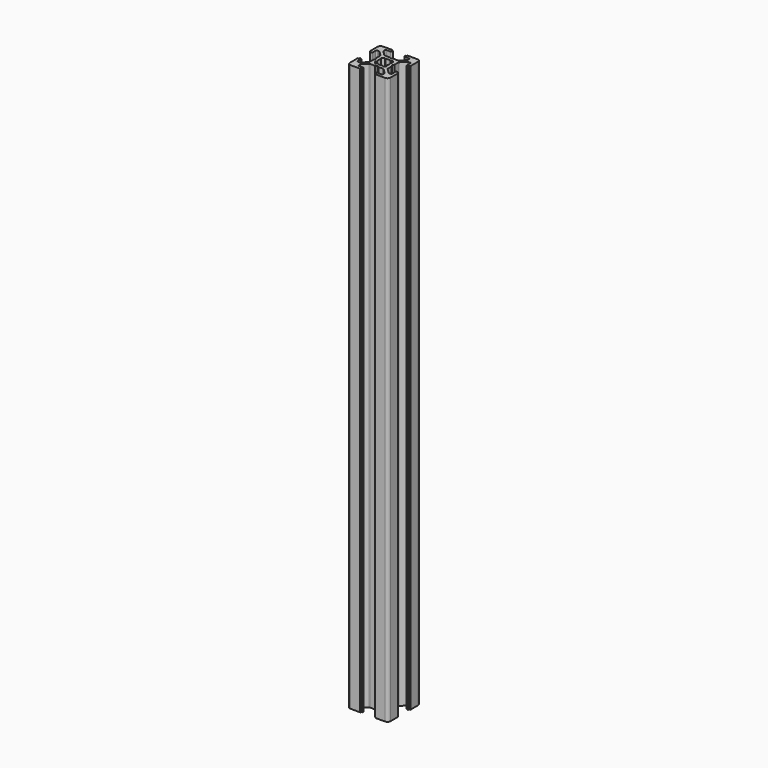
from build123d import *

# Parameters (mm, degrees)
PAD_DEPTH        = 5
POCKET_DEPTH     = 5.001
EXTRUDE001_DEPTH = 470
EXTRUDE_DEPTH    = 280


with BuildPart() as pocket:
    # Sketch → Pad (new body)
    with BuildSketch(Plane(origin=(1.5, 0, 0), x_dir=(1, 0, 0), z_dir=(0, 0, 1))):
        with BuildLine():
            Line((0, 20), (4.65, 20))
            ThreePointArc((4.85, 19.8), (4.791421, 19.941421), (4.65, 20))
            Line((4.85, 19.8), (4.85, 19.5))
            Line((4.85, 19.5), (5.2, 19.5))
            ThreePointArc((5.4, 19.3), (5.341421, 19.441421), (5.2, 19.5))
            Line((5.4, 19.3), (5.4, 19))
            ThreePointArc((4.9, 18.5), (5.253553, 18.646446), (5.4, 19))
            Line((4.9, 18.5), (2.999999, 18.5))
            ThreePointArc((2.999999, 18.5), (2.646446, 18.353553), (2.499999, 18))
            Line((2.499999, 18), (2.499999, 17.267767))
            ThreePointArc((2.499999, 17.267767), (2.53806, 17.076425), (2.646446, 16.914213))
            Line((2.646446, 16.914213), (4.914213, 14.646447))
            ThreePointArc((4.914213, 14.646447), (5.076424, 14.53806), (5.267766, 14.5))
            Line((5.267766, 14.5), (7.54641, 14.5))
            ThreePointArc((7.64641, 14.473205), (7.598173, 14.493185), (7.54641, 14.5))
            Line((7.64641, 14.473205), (8.4, 14.03812))
            ThreePointArc((8.4, 14.03812), (8.5, 14.011325), (8.6, 14.03812))
            Line((8.6, 14.03812), (9.35359, 14.473205))
            ThreePointArc((9.45359, 14.5), (9.401827, 14.493185), (9.35359, 14.473205))
            Line((9.45359, 14.5), (11.732234, 14.5))
            ThreePointArc((11.732234, 14.5), (11.923576, 14.53806), (12.085787, 14.646447))
            Line((12.085787, 14.646447), (14.353554, 16.914213))
            ThreePointArc((14.353554, 16.914213), (14.46194, 17.076425), (14.500001, 17.267767))
            Line((14.500001, 17.267767), (14.500001, 18))
            ThreePointArc((14.500001, 18), (14.353554, 18.353553), (14.000001, 18.5))
            Line((14.000001, 18.5), (12.1, 18.5))
            ThreePointArc((11.6, 19), (11.746447, 18.646446), (12.1, 18.5))
            Line((11.6, 19), (11.6, 19.3))
            ThreePointArc((11.8, 19.5), (11.658579, 19.441421), (11.6, 19.3))
            Line((11.8, 19.5), (12.15, 19.5))
            Line((12.15, 19.5), (12.15, 19.8))
            ThreePointArc((12.35, 20), (12.208579, 19.941421), (12.15, 19.8))
            Line((12.35, 20), (17, 20))
            ThreePointArc((18.5, 18.5), (18.06066, 19.56066), (17, 20))
            Line((18.5, 18.5), (18.5, 13.85))
            ThreePointArc((18.3, 13.65), (18.441421, 13.708578), (18.5, 13.85))
            Line((18.3, 13.65), (18, 13.65))
            Line((18, 13.65), (18, 13.3))
            ThreePointArc((17.8, 13.1), (17.941421, 13.158579), (18, 13.3))
            Line((17.8, 13.1), (17.5, 13.1))
            ThreePointArc((17, 13.6), (17.146446, 13.246447), (17.5, 13.1))
            Line((17, 13.6), (17, 15.5))
            ThreePointArc((17, 15.5), (16.853553, 15.853553), (16.5, 16))
            Line((16.5, 16), (15.767767, 16))
            ThreePointArc((15.767767, 16), (15.576425, 15.961939), (15.414213, 15.853553))
            Line((15.414213, 15.853553), (13.146446, 13.585786))
            ThreePointArc((13.146446, 13.585786), (13.03806, 13.423574), (13, 13.232233))
            Line((13, 13.232233), (13, 10.953589))
            ThreePointArc((12.973205, 10.853589), (12.993185, 10.901825), (13, 10.953589))
            Line((12.973205, 10.853589), (12.53812, 10.1))
            ThreePointArc((12.53812, 10.1), (12.511325, 10), (12.53812, 9.9))
            Line((12.53812, 9.9), (12.973205, 9.146411))
            ThreePointArc((13, 9.046411), (12.993185, 9.098175), (12.973205, 9.146411))
            Line((13, 9.046411), (13, 6.767767))
            ThreePointArc((13, 6.767767), (13.03806, 6.576426), (13.146446, 6.414214))
            Line((13.146446, 6.414214), (15.414213, 4.146447))
            ThreePointArc((15.414213, 4.146447), (15.576425, 4.038061), (15.767767, 4))
            Line((15.767767, 4), (16.5, 4))
            ThreePointArc((16.5, 4), (16.853553, 4.146447), (17, 4.5))
            Line((17, 4.5), (17, 6.4))
            ThreePointArc((17.5, 6.9), (17.146446, 6.753553), (17, 6.4))
            Line((17.5, 6.9), (17.8, 6.9))
            ThreePointArc((18, 6.7), (17.941421, 6.841421), (17.8, 6.9))
            Line((18, 6.7), (18, 6.35))
            Line((18, 6.35), (18.3, 6.35))
            ThreePointArc((18.5, 6.15), (18.441421, 6.291422), (18.3, 6.35))
            Line((18.5, 6.15), (18.5, 1.5))
            ThreePointArc((17, 0), (18.06066, 0.43934), (18.5, 1.5))
            Line((17, 0), (12.35, 0))
            ThreePointArc((12.15, 0.2), (12.208579, 0.058579), (12.35, 0))
            Line((12.15, 0.2), (12.15, 0.5))
            Line((12.15, 0.5), (11.8, 0.5))
            ThreePointArc((11.6, 0.7), (11.658579, 0.558579), (11.8, 0.5))
            Line((11.6, 0.7), (11.6, 1))
            ThreePointArc((12.1, 1.5), (11.746447, 1.353554), (11.6, 1))
            Line((12.1, 1.5), (14.000001, 1.5))
            ThreePointArc((14.000001, 1.5), (14.353554, 1.646447), (14.500001, 2))
            Line((14.500001, 2), (14.500001, 2.732233))
            ThreePointArc((14.500001, 2.732233), (14.46194, 2.923575), (14.353554, 3.085787))
            Line((14.353554, 3.085787), (12.085787, 5.353553))
            ThreePointArc((12.085787, 5.353553), (11.923576, 5.46194), (11.732234, 5.5))
            Line((11.732234, 5.5), (9.45359, 5.5))
            ThreePointArc((9.35359, 5.526795), (9.401827, 5.506815), (9.45359, 5.5))
            Line((9.35359, 5.526795), (8.6, 5.96188))
            ThreePointArc((8.6, 5.96188), (8.5, 5.988675), (8.4, 5.96188))
            Line((8.4, 5.96188), (7.64641, 5.526795))
            ThreePointArc((7.54641, 5.5), (7.598173, 5.506815), (7.64641, 5.526795))
            Line((7.54641, 5.5), (5.267766, 5.5))
            ThreePointArc((5.267766, 5.5), (5.076424, 5.46194), (4.914213, 5.353553))
            Line((4.914213, 5.353553), (2.646446, 3.085787))
            ThreePointArc((2.646446, 3.085787), (2.53806, 2.923575), (2.499999, 2.732233))
            Line((2.499999, 2.732233), (2.499999, 2))
            ThreePointArc((2.499999, 2), (2.646446, 1.646447), (2.999999, 1.5))
            Line((2.999999, 1.5), (4.9, 1.5))
            ThreePointArc((5.4, 1), (5.253553, 1.353554), (4.9, 1.5))
            Line((5.4, 1), (5.4, 0.7))
            ThreePointArc((5.2, 0.5), (5.341421, 0.558579), (5.4, 0.7))
            Line((5.2, 0.5), (4.85, 0.5))
            Line((4.85, 0.5), (4.85, 0.2))
            ThreePointArc((4.65, 0), (4.791421, 0.058579), (4.85, 0.2))
            Line((4.65, 0), (0, 0))
            ThreePointArc((-1.5, 1.5), (-1.06066, 0.43934), (0, 0))
            Line((-1.5, 1.5), (-1.5, 6.15))
            ThreePointArc((-1.3, 6.35), (-1.441421, 6.291422), (-1.5, 6.15))
            Line((-1.3, 6.35), (-1, 6.35))
            Line((-1, 6.35), (-1, 6.7))
            ThreePointArc((-0.8, 6.9), (-0.941421, 6.841421), (-1, 6.7))
            Line((-0.8, 6.9), (-0.5, 6.9))
            ThreePointArc((0, 6.4), (-0.146446, 6.753553), (-0.5, 6.9))
            Line((0, 6.4), (0, 4.5))
            ThreePointArc((0, 4.5), (0.146447, 4.146447), (0.5, 4))
            Line((0.5, 4), (1.232233, 4))
            ThreePointArc((1.232233, 4), (1.423575, 4.038061), (1.585787, 4.146447))
            Line((1.585787, 4.146447), (3.853554, 6.414214))
            ThreePointArc((3.853554, 6.414214), (3.96194, 6.576426), (4, 6.767767))
            Line((4, 6.767767), (4, 9.046411))
            ThreePointArc((4.026795, 9.146411), (4.006815, 9.098175), (4, 9.046411))
            Line((4.026795, 9.146411), (4.46188, 9.9))
            ThreePointArc((4.46188, 9.9), (4.488675, 10), (4.46188, 10.1))
            Line((4.46188, 10.1), (4.026795, 10.853589))
            ThreePointArc((4, 10.953589), (4.006815, 10.901825), (4.026795, 10.853589))
            Line((4, 10.953589), (4, 13.232233))
            ThreePointArc((4, 13.232233), (3.96194, 13.423574), (3.853554, 13.585786))
            Line((3.853554, 13.585786), (1.585787, 15.853553))
            ThreePointArc((1.585787, 15.853553), (1.423575, 15.961939), (1.232233, 16))
            Line((1.232233, 16), (0.5, 16))
            ThreePointArc((0.5, 16), (0.146447, 15.853553), (0, 15.5))
            Line((0, 15.5), (0, 13.6))
            ThreePointArc((-0.5, 13.1), (-0.146446, 13.246447), (0, 13.6))
            Line((-0.5, 13.1), (-0.8, 13.1))
            ThreePointArc((-1, 13.3), (-0.941421, 13.158579), (-0.8, 13.1))
            Line((-1, 13.3), (-1, 13.65))
            Line((-1, 13.65), (-1.3, 13.65))
            ThreePointArc((-1.5, 13.85), (-1.441421, 13.708578), (-1.3, 13.65))
            Line((-1.5, 13.85), (-1.5, 18.5))
            ThreePointArc((0, 20), (-1.06066, 19.56066), (-1.5, 18.5))
        make_face()
    extrude(amount=PAD_DEPTH)

    # Sketch001 → Pocket (cut, through all)
    with BuildSketch(Plane(origin=(1.5, 0, 5), x_dir=(1, 0, 0), z_dir=(0, 0, 1))):
        with BuildLine():
            ThreePointArc((6.586105, 12.989641), (5.988263, 12.50841), (5.507825, 11.909931))
            Line((6.054705, 11.258185), (5.507825, 11.909931))
            ThreePointArc((6.054705, 11.258185), (5.75, 10), (6.054705, 8.741815))
            Line((5.507825, 8.090069), (6.054705, 8.741815))
            ThreePointArc((5.507825, 8.090069), (5.988263, 7.49159), (6.586105, 7.010359))
            Line((7.241815, 7.554705), (6.586105, 7.010359))
            ThreePointArc((7.241815, 7.554705), (8.5, 7.25), (9.758185, 7.554705))
            Line((10.413895, 7.010359), (9.758185, 7.554705))
            ThreePointArc((10.413895, 7.010359), (11.011737, 7.49159), (11.492175, 8.090069))
            Line((10.945295, 8.741815), (11.492175, 8.090069))
            ThreePointArc((10.945295, 8.741815), (11.25, 10), (10.945295, 11.258185))
            Line((11.492175, 11.909931), (10.945295, 11.258185))
            ThreePointArc((11.492175, 11.909931), (11.011737, 12.50841), (10.413895, 12.989641))
            Line((9.758185, 12.445295), (10.413895, 12.989641))
            ThreePointArc((9.758185, 12.445295), (8.5, 12.75), (7.241815, 12.445295))
            Line((6.586105, 12.989641), (7.241815, 12.445295))
        make_face()
    extrude(amount=-POCKET_DEPTH, mode=Mode.SUBTRACT)


with BuildPart() as extrude001:
    # Sketch001 → Extrude001 (new body)
    with BuildSketch(Plane(origin=(1.5, 0, 5), x_dir=(1, 0, 0), z_dir=(0, 0, 1))):
        with BuildLine():
            ThreePointArc((6.586105, 12.989641), (5.988263, 12.50841), (5.507825, 11.909931))
            Line((6.054705, 11.258185), (5.507825, 11.909931))
            ThreePointArc((6.054705, 11.258185), (5.75, 10), (6.054705, 8.741815))
            Line((5.507825, 8.090069), (6.054705, 8.741815))
            ThreePointArc((5.507825, 8.090069), (5.988263, 7.49159), (6.586105, 7.010359))
            Line((7.241815, 7.554705), (6.586105, 7.010359))
            ThreePointArc((7.241815, 7.554705), (8.5, 7.25), (9.758185, 7.554705))
            Line((10.413895, 7.010359), (9.758185, 7.554705))
            ThreePointArc((10.413895, 7.010359), (11.011737, 7.49159), (11.492175, 8.090069))
            Line((10.945295, 8.741815), (11.492175, 8.090069))
            ThreePointArc((10.945295, 8.741815), (11.25, 10), (10.945295, 11.258185))
            Line((11.492175, 11.909931), (10.945295, 11.258185))
            ThreePointArc((11.492175, 11.909931), (11.011737, 12.50841), (10.413895, 12.989641))
            Line((9.758185, 12.445295), (10.413895, 12.989641))
            ThreePointArc((9.758185, 12.445295), (8.5, 12.75), (7.241815, 12.445295))
            Line((6.586105, 12.989641), (7.241815, 12.445295))
        make_face()
    extrude(amount=EXTRUDE001_DEPTH)


with BuildPart() as extrude001_1:
    # Extrude001 placement: moved
    add(extrude001.part.moved(Location((0, 0, -25))))


with BuildPart() as cut:
    # Sketch → Extrude (new body)
    with BuildSketch(Plane(origin=(1.5, 0, 0), x_dir=(1, 0, 0), z_dir=(0, 0, 1))):
        with BuildLine():
            Line((0, 20), (4.65, 20))
            ThreePointArc((4.85, 19.8), (4.791421, 19.941421), (4.65, 20))
            Line((4.85, 19.8), (4.85, 19.5))
            Line((4.85, 19.5), (5.2, 19.5))
            ThreePointArc((5.4, 19.3), (5.341421, 19.441421), (5.2, 19.5))
            Line((5.4, 19.3), (5.4, 19))
            ThreePointArc((4.9, 18.5), (5.253553, 18.646446), (5.4, 19))
            Line((4.9, 18.5), (2.999999, 18.5))
            ThreePointArc((2.999999, 18.5), (2.646446, 18.353553), (2.499999, 18))
            Line((2.499999, 18), (2.499999, 17.267767))
            ThreePointArc((2.499999, 17.267767), (2.53806, 17.076425), (2.646446, 16.914213))
            Line((2.646446, 16.914213), (4.914213, 14.646447))
            ThreePointArc((4.914213, 14.646447), (5.076424, 14.53806), (5.267766, 14.5))
            Line((5.267766, 14.5), (7.54641, 14.5))
            ThreePointArc((7.64641, 14.473205), (7.598173, 14.493185), (7.54641, 14.5))
            Line((7.64641, 14.473205), (8.4, 14.03812))
            ThreePointArc((8.4, 14.03812), (8.5, 14.011325), (8.6, 14.03812))
            Line((8.6, 14.03812), (9.35359, 14.473205))
            ThreePointArc((9.45359, 14.5), (9.401827, 14.493185), (9.35359, 14.473205))
            Line((9.45359, 14.5), (11.732234, 14.5))
            ThreePointArc((11.732234, 14.5), (11.923576, 14.53806), (12.085787, 14.646447))
            Line((12.085787, 14.646447), (14.353554, 16.914213))
            ThreePointArc((14.353554, 16.914213), (14.46194, 17.076425), (14.500001, 17.267767))
            Line((14.500001, 17.267767), (14.500001, 18))
            ThreePointArc((14.500001, 18), (14.353554, 18.353553), (14.000001, 18.5))
            Line((14.000001, 18.5), (12.1, 18.5))
            ThreePointArc((11.6, 19), (11.746447, 18.646446), (12.1, 18.5))
            Line((11.6, 19), (11.6, 19.3))
            ThreePointArc((11.8, 19.5), (11.658579, 19.441421), (11.6, 19.3))
            Line((11.8, 19.5), (12.15, 19.5))
            Line((12.15, 19.5), (12.15, 19.8))
            ThreePointArc((12.35, 20), (12.208579, 19.941421), (12.15, 19.8))
            Line((12.35, 20), (17, 20))
            ThreePointArc((18.5, 18.5), (18.06066, 19.56066), (17, 20))
            Line((18.5, 18.5), (18.5, 13.85))
            ThreePointArc((18.3, 13.65), (18.441421, 13.708578), (18.5, 13.85))
            Line((18.3, 13.65), (18, 13.65))
            Line((18, 13.65), (18, 13.3))
            ThreePointArc((17.8, 13.1), (17.941421, 13.158579), (18, 13.3))
            Line((17.8, 13.1), (17.5, 13.1))
            ThreePointArc((17, 13.6), (17.146446, 13.246447), (17.5, 13.1))
            Line((17, 13.6), (17, 15.5))
            ThreePointArc((17, 15.5), (16.853553, 15.853553), (16.5, 16))
            Line((16.5, 16), (15.767767, 16))
            ThreePointArc((15.767767, 16), (15.576425, 15.961939), (15.414213, 15.853553))
            Line((15.414213, 15.853553), (13.146446, 13.585786))
            ThreePointArc((13.146446, 13.585786), (13.03806, 13.423574), (13, 13.232233))
            Line((13, 13.232233), (13, 10.953589))
            ThreePointArc((12.973205, 10.853589), (12.993185, 10.901825), (13, 10.953589))
            Line((12.973205, 10.853589), (12.53812, 10.1))
            ThreePointArc((12.53812, 10.1), (12.511325, 10), (12.53812, 9.9))
            Line((12.53812, 9.9), (12.973205, 9.146411))
            ThreePointArc((13, 9.046411), (12.993185, 9.098175), (12.973205, 9.146411))
            Line((13, 9.046411), (13, 6.767767))
            ThreePointArc((13, 6.767767), (13.03806, 6.576426), (13.146446, 6.414214))
            Line((13.146446, 6.414214), (15.414213, 4.146447))
            ThreePointArc((15.414213, 4.146447), (15.576425, 4.038061), (15.767767, 4))
            Line((15.767767, 4), (16.5, 4))
            ThreePointArc((16.5, 4), (16.853553, 4.146447), (17, 4.5))
            Line((17, 4.5), (17, 6.4))
            ThreePointArc((17.5, 6.9), (17.146446, 6.753553), (17, 6.4))
            Line((17.5, 6.9), (17.8, 6.9))
            ThreePointArc((18, 6.7), (17.941421, 6.841421), (17.8, 6.9))
            Line((18, 6.7), (18, 6.35))
            Line((18, 6.35), (18.3, 6.35))
            ThreePointArc((18.5, 6.15), (18.441421, 6.291422), (18.3, 6.35))
            Line((18.5, 6.15), (18.5, 1.5))
            ThreePointArc((17, 0), (18.06066, 0.43934), (18.5, 1.5))
            Line((17, 0), (12.35, 0))
            ThreePointArc((12.15, 0.2), (12.208579, 0.058579), (12.35, 0))
            Line((12.15, 0.2), (12.15, 0.5))
            Line((12.15, 0.5), (11.8, 0.5))
            ThreePointArc((11.6, 0.7), (11.658579, 0.558579), (11.8, 0.5))
            Line((11.6, 0.7), (11.6, 1))
            ThreePointArc((12.1, 1.5), (11.746447, 1.353554), (11.6, 1))
            Line((12.1, 1.5), (14.000001, 1.5))
            ThreePointArc((14.000001, 1.5), (14.353554, 1.646447), (14.500001, 2))
            Line((14.500001, 2), (14.500001, 2.732233))
            ThreePointArc((14.500001, 2.732233), (14.46194, 2.923575), (14.353554, 3.085787))
            Line((14.353554, 3.085787), (12.085787, 5.353553))
            ThreePointArc((12.085787, 5.353553), (11.923576, 5.46194), (11.732234, 5.5))
            Line((11.732234, 5.5), (9.45359, 5.5))
            ThreePointArc((9.35359, 5.526795), (9.401827, 5.506815), (9.45359, 5.5))
            Line((9.35359, 5.526795), (8.6, 5.96188))
            ThreePointArc((8.6, 5.96188), (8.5, 5.988675), (8.4, 5.96188))
            Line((8.4, 5.96188), (7.64641, 5.526795))
            ThreePointArc((7.54641, 5.5), (7.598173, 5.506815), (7.64641, 5.526795))
            Line((7.54641, 5.5), (5.267766, 5.5))
            ThreePointArc((5.267766, 5.5), (5.076424, 5.46194), (4.914213, 5.353553))
            Line((4.914213, 5.353553), (2.646446, 3.085787))
            ThreePointArc((2.646446, 3.085787), (2.53806, 2.923575), (2.499999, 2.732233))
            Line((2.499999, 2.732233), (2.499999, 2))
            ThreePointArc((2.499999, 2), (2.646446, 1.646447), (2.999999, 1.5))
            Line((2.999999, 1.5), (4.9, 1.5))
            ThreePointArc((5.4, 1), (5.253553, 1.353554), (4.9, 1.5))
            Line((5.4, 1), (5.4, 0.7))
            ThreePointArc((5.2, 0.5), (5.341421, 0.558579), (5.4, 0.7))
            Line((5.2, 0.5), (4.85, 0.5))
            Line((4.85, 0.5), (4.85, 0.2))
            ThreePointArc((4.65, 0), (4.791421, 0.058579), (4.85, 0.2))
            Line((4.65, 0), (0, 0))
            ThreePointArc((-1.5, 1.5), (-1.06066, 0.43934), (0, 0))
            Line((-1.5, 1.5), (-1.5, 6.15))
            ThreePointArc((-1.3, 6.35), (-1.441421, 6.291422), (-1.5, 6.15))
            Line((-1.3, 6.35), (-1, 6.35))
            Line((-1, 6.35), (-1, 6.7))
            ThreePointArc((-0.8, 6.9), (-0.941421, 6.841421), (-1, 6.7))
            Line((-0.8, 6.9), (-0.5, 6.9))
            ThreePointArc((0, 6.4), (-0.146446, 6.753553), (-0.5, 6.9))
            Line((0, 6.4), (0, 4.5))
            ThreePointArc((0, 4.5), (0.146447, 4.146447), (0.5, 4))
            Line((0.5, 4), (1.232233, 4))
            ThreePointArc((1.232233, 4), (1.423575, 4.038061), (1.585787, 4.146447))
            Line((1.585787, 4.146447), (3.853554, 6.414214))
            ThreePointArc((3.853554, 6.414214), (3.96194, 6.576426), (4, 6.767767))
            Line((4, 6.767767), (4, 9.046411))
            ThreePointArc((4.026795, 9.146411), (4.006815, 9.098175), (4, 9.046411))
            Line((4.026795, 9.146411), (4.46188, 9.9))
            ThreePointArc((4.46188, 9.9), (4.488675, 10), (4.46188, 10.1))
            Line((4.46188, 10.1), (4.026795, 10.853589))
            ThreePointArc((4, 10.953589), (4.006815, 10.901825), (4.026795, 10.853589))
            Line((4, 10.953589), (4, 13.232233))
            ThreePointArc((4, 13.232233), (3.96194, 13.423574), (3.853554, 13.585786))
            Line((3.853554, 13.585786), (1.585787, 15.853553))
            ThreePointArc((1.585787, 15.853553), (1.423575, 15.961939), (1.232233, 16))
            Line((1.232233, 16), (0.5, 16))
            ThreePointArc((0.5, 16), (0.146447, 15.853553), (0, 15.5))
            Line((0, 15.5), (0, 13.6))
            ThreePointArc((-0.5, 13.1), (-0.146446, 13.246447), (0, 13.6))
            Line((-0.5, 13.1), (-0.8, 13.1))
            ThreePointArc((-1, 13.3), (-0.941421, 13.158579), (-0.8, 13.1))
            Line((-1, 13.3), (-1, 13.65))
            Line((-1, 13.65), (-1.3, 13.65))
            ThreePointArc((-1.5, 13.85), (-1.441421, 13.708578), (-1.3, 13.65))
            Line((-1.5, 13.85), (-1.5, 18.5))
            ThreePointArc((0, 20), (-1.06066, 19.56066), (-1.5, 18.5))
        make_face()
    extrude(amount=EXTRUDE_DEPTH)

    # Cut: cut Extrude001
    add(extrude001_1.part, mode=Mode.SUBTRACT)


solid = Compound([pocket.part, cut.part])
